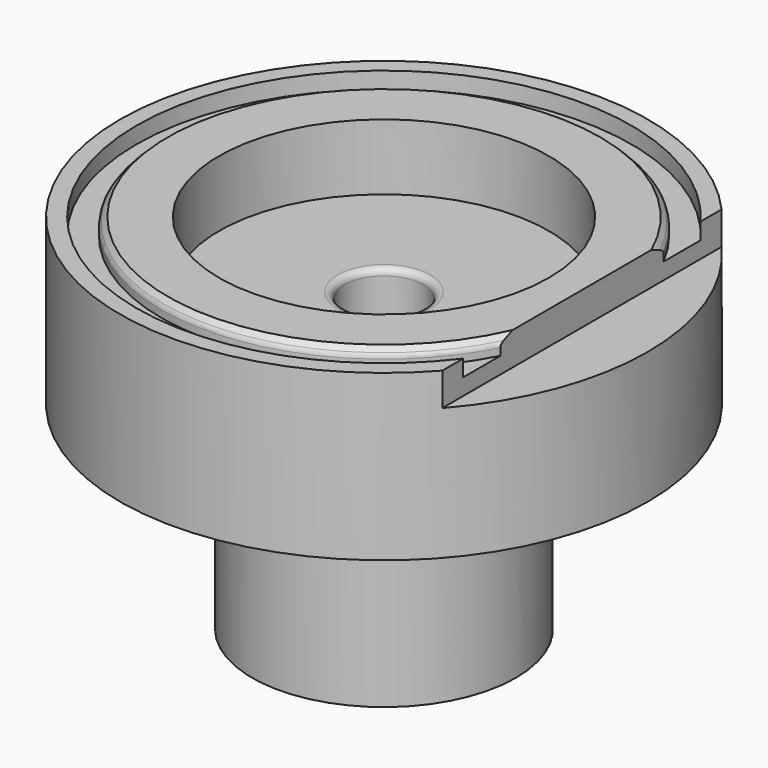
from build123d import *

# Parameters (mm, degrees)
F0_R      = 8
F1_DEPTH  = 5
F2_R      = 4
F3_DEPTH  = 6
F4_R      = 1.2
F5_DEPTH  = 9
F6_R      = 5
F7_DEPTH  = 2
F8_R      = 7.5
F8_R_2    = 6.75
F9_DEPTH  = 0.5
F10_SIZE  = 0.2
F11_R     = 0.2
F13_R     = 1.25
F14_DEPTH = 4.5
F15_W     = 2
F15_H     = 12
F16_DEPTH = 1


with BuildPart() as f1:
    # F0 (on Top) → F1 (new body)
    with BuildSketch(Plane.XY):
        Circle(F0_R)
    extrude(amount=F1_DEPTH)

    # F2 (on face) → F3 (join)
    with BuildSketch(Plane(origin=(0, 0, 0), x_dir=(1, 0, 0), z_dir=(0, 0, -1))):
        Circle(F2_R)
    extrude(amount=F3_DEPTH)

    # F4 (on face) → F5 (cut)
    with BuildSketch(Plane(origin=(0, 0, -6), x_dir=(1, 0, 0), z_dir=(0, 0, -1))):
        Circle(F4_R)
    extrude(amount=-F5_DEPTH, mode=Mode.SUBTRACT)

    # F6 (on face) → F7 (cut)
    with BuildSketch(Plane.XY.offset(5)):
        Circle(F6_R)
    extrude(amount=-F7_DEPTH, mode=Mode.SUBTRACT)

    # F8 (on face) → F9 (cut)
    with BuildSketch(Plane.XY.offset(5)):
        Circle(F8_R)
        Circle(F8_R_2, mode=Mode.SUBTRACT)
    extrude(amount=-F9_DEPTH, mode=Mode.SUBTRACT)

    # F10
    f10_edges = [f1.edges().sort_by_distance(p)[0] for p in [
        (-6.75, 0, 5),
    ]]
    chamfer(f10_edges, length=F10_SIZE)

    # F11
    f11_edges = [f1.edges().sort_by_distance(p)[0] for p in [
        (-6.75, 0, 4.8),
        (-1.2, 0, 3),
        (-1.2, 0, -6),
    ]]
    fillet(f11_edges, radius=F11_R)

    # F13 (on Right) → F14 (cut)
    with BuildSketch(Plane.YZ):
        with Locations((0, -3.5)):
            Circle(F13_R)
    extrude(amount=-F14_DEPTH, mode=Mode.SUBTRACT)

    # F15 (on offset) → F16 (cut)
    with BuildSketch(Plane.XY.offset(5)):
        with Locations((7, -0.3699996099)):
            Rectangle(F15_W, F15_H)
    extrude(amount=-F16_DEPTH, mode=Mode.SUBTRACT)


solid = f1.part
